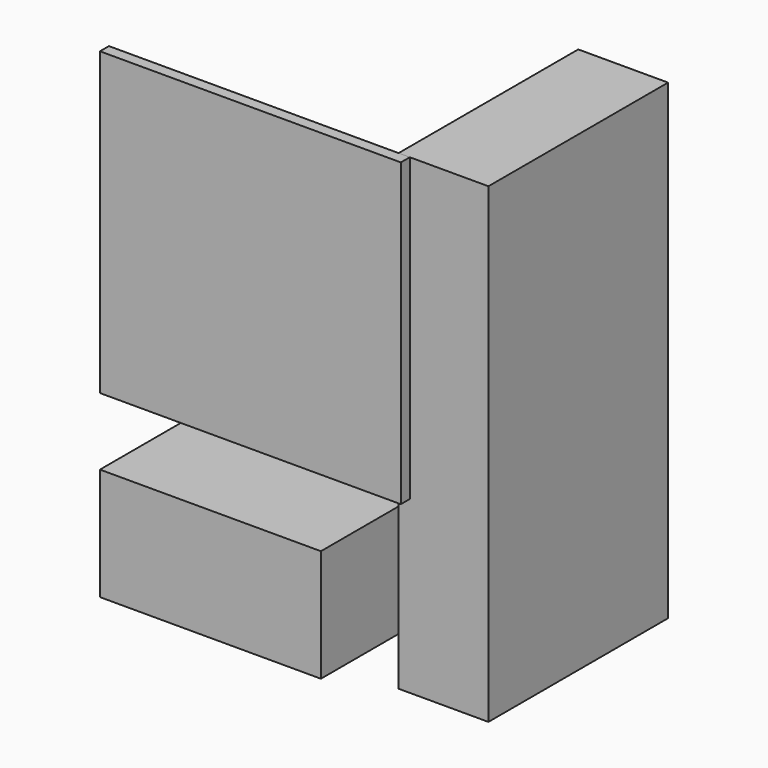
from build123d import *

# Parameters (mm, degrees)
F0_W     = 124.968
F0_H     = 100.076
F1_DEPTH = 63.5
F2_W     = 6.3500028181
F2_H     = 170.18
F3_DEPTH = 6.35
F4_W     = 6.3500028181
F4_H     = 170.18
F5_DEPTH = 127


with BuildPart() as f1:
    # F0 (on Top) → F1 (new body)
    with BuildSketch(Plane.XY):
        with Locations((62.484, 50.038)):
            Rectangle(F0_W, F0_H)
    extrude(amount=F1_DEPTH)


with BuildPart() as f3:
    # F2 (on face) → F3 (new body)
    with BuildSketch(Plane.XZ):
        Polygon((0, 271.78), (0, 101.6), (124.968, 101.6), (163.8299971819, 101.6), (163.8299971819, 271.78), align=None)
        with Locations((167.0049985909, 186.69)):
            Rectangle(F2_W, F2_H)
    extrude(amount=-F3_DEPTH)


with BuildPart() as f5:
    # F4 (on face) → F5 (new body)
    with BuildSketch(Plane(origin=(0, 6.35, 0), x_dir=(-1, 0, 0), z_dir=(0, 1, 0))):
        Polygon((-163.8299971819, 101.6), (-170.18, 101.6), (-170.18, 271.78), (-214.6299971819, 271.78), (-214.6299971819, 5.08), (-163.8299971819, 5.08), align=None)
        with Locations((-167.0049985909, 186.69)):
            Rectangle(F4_W, F4_H)
    extrude(amount=F5_DEPTH)


solid = Compound([f1.part, f3.part, f5.part])
